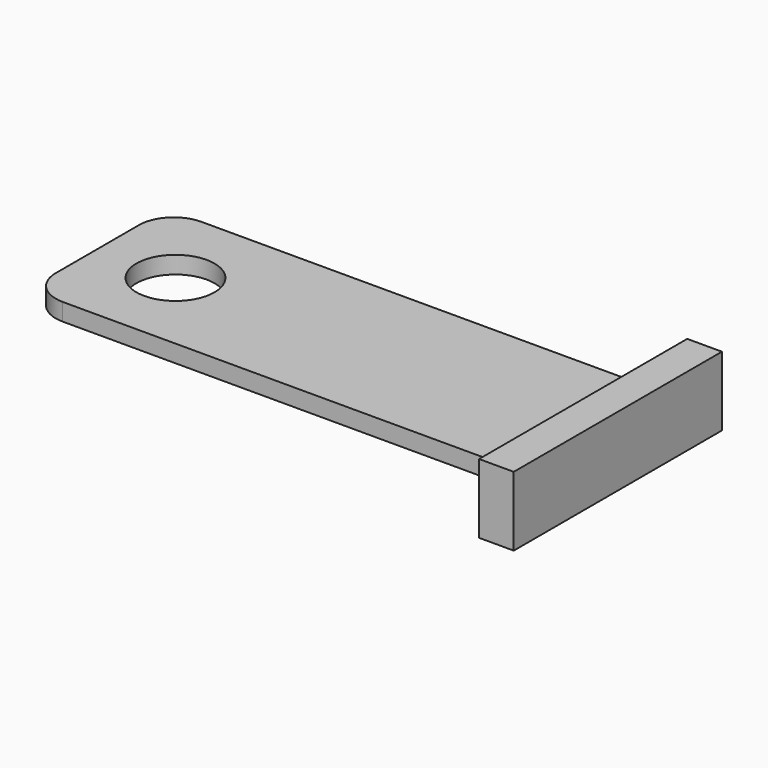
from build123d import *

# Parameters (mm, degrees)
F1_DEPTH = 4
F0_W     = 56
F0_H     = 20
F0_R     = 4.5
F2_DEPTH = 1
F3_R     = 4
F4_R     = 4


with BuildPart() as f1:
    # F0 (on Top) → F1 (new body, symmetric)
    with BuildSketch(Plane.XY):
        Polygon((28, 15), (28, 10), (28, -10), (28, -15), (32, -15), (32, 15), align=None)
    extrude(amount=F1_DEPTH, both=True)


with BuildPart() as f2:
    # F0 (on Top) → F2 (new body, symmetric)
    with BuildSketch(Plane.XY):
        Rectangle(F0_W, F0_H)
        with Locations((-19, 0)):
            Circle(F0_R, mode=Mode.SUBTRACT)
    extrude(amount=F2_DEPTH, both=True)

    # F3
    f3_edges = [f2.edges().sort_by_distance(p)[0] for p in [
        (-28, -10, 0),
    ]]
    fillet(f3_edges, radius=F3_R)

    # F4
    f4_edges = [f2.edges().sort_by_distance(p)[0] for p in [
        (-28, 10, 0),
    ]]
    fillet(f4_edges, radius=F4_R)


solid = Compound([f1.part, f2.part])
